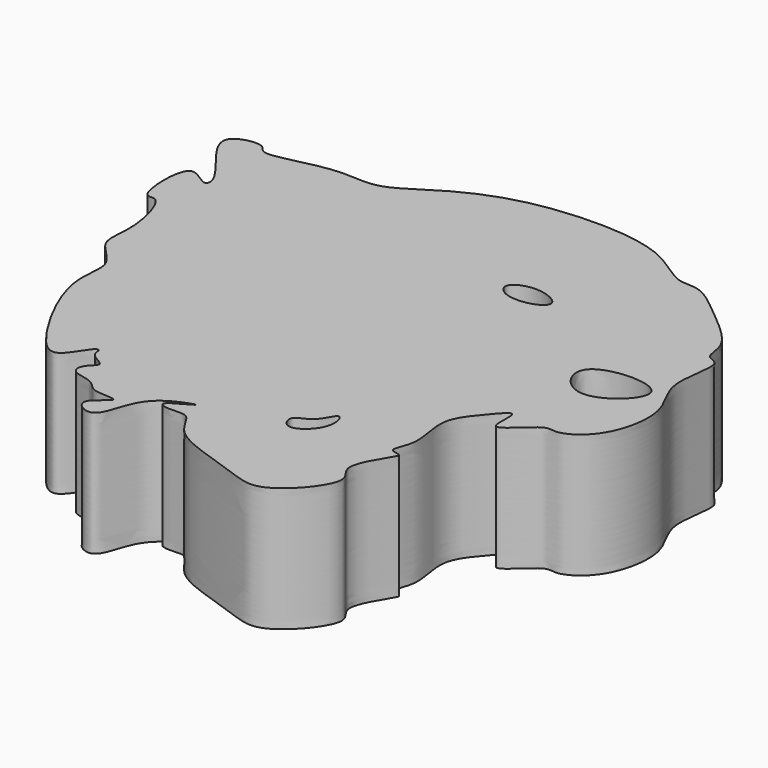
from build123d import *

# Parameters (mm, degrees)
F1_DEPTH = 25


with BuildPart() as f1:
    # F0 (on Top) → F1 (new body)
    with BuildSketch(Plane.XY):
        with BuildLine():
            add(Edge.make_bspline(
                [(28.2690003514, 39.6887846291), (26.0100676307, 40.436968107), (19.4947700009, 47.1794777766), (-4.7473454851, 47.1555358714), (-19.3134255489, 41.1598427273), (-28.7538153813, 33.7294500914), (-37.1521676935, 36.256627457), (-50.5721425084, 31.3988236483), (-50.7981252271, 35.3141014349), (-62.1033055334, 33.311718238), (-49.4862498522, 21.8916236755), (-50.359885548, 17.5988340222), (-56.8970627079, 24.713229803), (-56.3279388188, 8.4168088321), (-52.3387920428, 11.2141575498), (-49.1880835397, -0.5760651624), (-51.514898196, -7.0065953995), (-43.8605507725, -11.9777210622), (-47.4309857215, -20.3481036233), (-38.3769348023, -37.4708870104), (-32.374286831, -42.8233322038), (-29.3374780572, -36.0955621258), (-27.7486559233, -35.6562697605), (-28.1331518517, -38.1012459053), (-23.6450715105, -39.4263797579), (-26.8304881233, -41.3745512339), (-26.9734917834, -44.4309540531), (-22.8202051032, -44.6387754805), (-21.2867357495, -46.0653213897), (-19.833119386, -47.5751242137), (-13.1649419779, -47.0081416385), (-21.0718052723, -51.0001561634), (-15.193742964, -54.7521779629), (-13.2907991931, -49.2030100714), (-11.3260949053, -42.9872553523), (-1.0879148131, -39.650570783), (-10.5023541879, -43.915271798), (-6.6759854323, -44.9681085746), (-2.6248358069, -43.9239578036), (-0.9958240267, -51.1460185435), (13.5286186343, -54.5976114251), (21.3728233374, -58.9133689443), (31.9746377409, -46.2881316608), (25.7927207578, -43.2011813044), (30.7013516459, -35.657133069), (31.5591000757, -34.0419956988), (28.1884548738, -34.1632852436), (31.4911527901, -29.3826243149), (28.2150726848, -20.9988540235), (32.7381212764, -15.649173801), (37.4713260689, -9.9620842442), (35.3664861904, -20.960442375), (42.9364414421, -11.6334858279), (45.6656681288, -13.4786494931), (52.7392625161, -9.3447328111), (55.2058883047, 3.7146050019), (48.2827686959, 10.5416579557), (51.9920078728, 21.6072653629), (47.6139309965, 21.8295049388), (48.3668131061, 27.2289231481), (39.4386379166, 34.2845815476), (32.8877994703, 39.9734187801), (29.7192387352, 39.2084496515), (28.2690003514, 39.6887846291)],
                knots=[0, 0, 0, 0, 0.0215685581, 0.0542111108, 0.0814421198, 0.1032661088, 0.1234070383, 0.1469018861, 0.1568497824, 0.1732353017, 0.1977700407, 0.207235485, 0.2215428166, 0.2431988382, 0.2528031768, 0.2742643467, 0.2918381396, 0.3093516403, 0.3281931632, 0.3578370289, 0.3738545212, 0.3900165505, 0.3963464801, 0.4052983405, 0.4173177905, 0.4277579348, 0.4378259352, 0.4504857849, 0.4600445017, 0.4701516048, 0.4830611233, 0.4974229596, 0.5101612033, 0.5243153471, 0.5427860362, 0.5585841931, 0.5736978428, 0.582917227, 0.5957704123, 0.6117156952, 0.6371304369, 0.6567131324, 0.6803368962, 0.6942290841, 0.7131422039, 0.7203700913, 0.7293219427, 0.7427909926, 0.7623092342, 0.7806054978, 0.7940250045, 0.8087520445, 0.8268349067, 0.838119315, 0.8557070598, 0.8789822172, 0.8995051386, 0.9199580515, 0.9303981851, 0.943980768, 0.966580953, 0.9861529515, 1, 1, 1, 1], degree=3))
        make_face()
        with BuildLine():
            add(Edge.make_bspline(
                [(10.1233180612, -35.1961888373), (10.4600742199, -34.2852659011), (13.7142239728, -33.9505977732), (15.5011850049, -28.108253758), (17.5110333752, -34.1922366308), (11.4628138864, -39.3083313115), (9.8341283503, -35.9784448818), (10.1233180612, -35.1961888373)],
                knots=[0, 0, 0, 0, 0.1942034162, 0.3919961989, 0.5830043891, 0.8332276089, 1, 1, 1, 1], degree=3))
        make_face(mode=Mode.SUBTRACT)
        with BuildLine():
            add(Edge.make_bspline(
                [(35.953361541, 6.7598605528), (34.2013298004, 4.3793074381), (39.9707046346, -4.5872009709), (55.7455456754, 10.1513384037), (38.1474438217, 9.7410447894), (35.953361541, 6.7598605528)],
                knots=[0, 0, 0, 0, 0.2928183396, 0.6333014321, 1, 1, 1, 1], degree=3))
        make_face(mode=Mode.SUBTRACT)
        with BuildLine():
            add(Edge.make_bspline(
                [(8.3822729066, 21.30760625), (8.1139266789, 20.4652054071), (9.9072990025, 18.0389360845), (16.1881075293, 18.5568069324), (18.7121183048, 21.4314304069), (12.8615994397, 24.1328211908), (8.7310323727, 22.4024428376), (8.3822729066, 21.30760625)],
                knots=[0, 0, 0, 0, 0.16651876, 0.4096452217, 0.5603755372, 0.7835818512, 1, 1, 1, 1], degree=3))
        make_face(mode=Mode.SUBTRACT)
    extrude(amount=F1_DEPTH)


solid = f1.part
